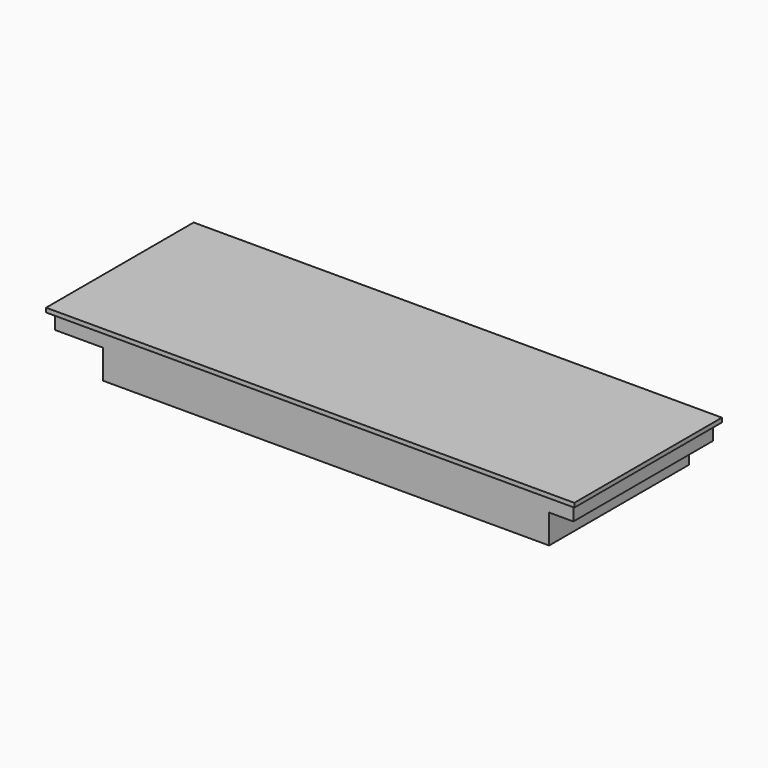
from build123d import *

# Parameters (mm, degrees)
SKETCH004_W             = 218.2
SKETCH004_H             = 76.2
PAD004_DEPTH            = 1.75
SKETCH005_W             = 214.2
SKETCH005_H             = 72.2
PAD005_DEPTH            = 6.5
SKETCH006_W             = 184.2
SKETCH006_H             = 72.2
PAD006_DEPTH            = 12
BODY003_PLACEMENT_ANGLE = 180


with BuildPart() as part:
    # Sketch004 (on CopyDatumPlane) → Pad004 (new body)
    with BuildSketch(Plane(origin=(0, 0, -31.25), x_dir=(1, 0, 0), z_dir=(0, 0, -1))):
        Rectangle(SKETCH004_W, SKETCH004_H)
    extrude(amount=PAD004_DEPTH)

    # Sketch005 (on Face6 of Pad004) → Pad005 (join)
    with BuildSketch(Plane(origin=(0, 0, -33), x_dir=(1, 0, 0), z_dir=(0, 0, -1))):
        Rectangle(SKETCH005_W, SKETCH005_H)
    extrude(amount=PAD005_DEPTH)

    # Sketch006 (on Face11 of Pad005) → Pad006 (join)
    with BuildSketch(Plane(origin=(0, 0, -39.5), x_dir=(1, 0, 0), z_dir=(0, 0, -1))):
        with Locations((-5, 0)):
            Rectangle(SKETCH006_W, SKETCH006_H)
    extrude(amount=PAD006_DEPTH)


with BuildPart() as part_1:
    # Body003 placement: moved
    add(part.part.rotate(Axis((0, 0, 0), (0, 0, 1)), BODY003_PLACEMENT_ANGLE))


solid = part_1.part
